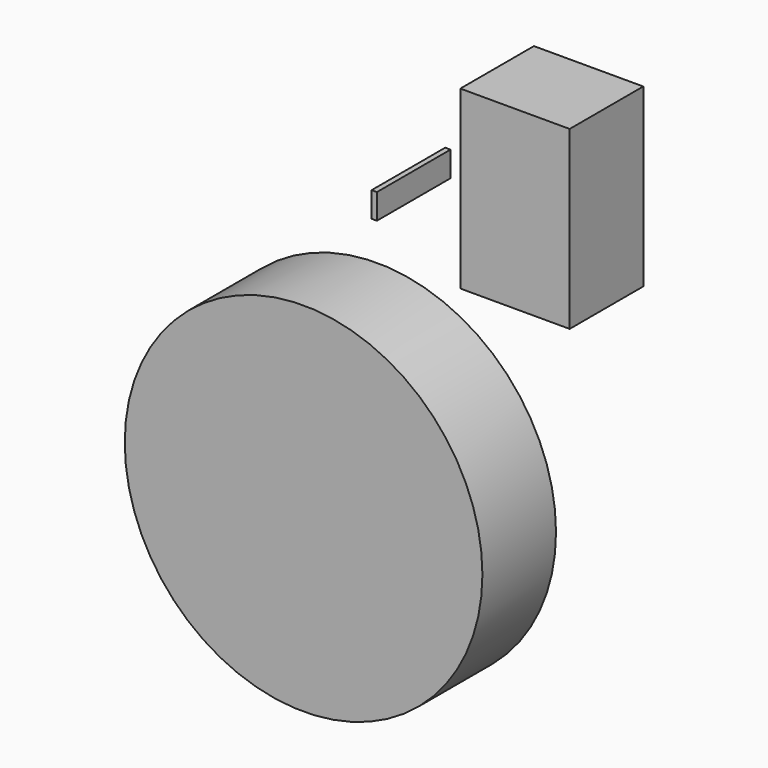
from build123d import *

# Parameters (mm, degrees)
F1_W     = 1.456469
F1_H     = 6.968319
F1_W_2   = 30.181892
F1_H_2   = 48.602842
F1_R     = 49.372417
F2_DEPTH = 25.4


with BuildPart() as f2:
    # F1 (on face) → F2 (new body)
    with BuildSketch(Plane.XZ):
        with Locations((19.516655, 80.006719)):
            Rectangle(F1_W, F1_H)
        with Locations((58.367323, 91.836769)):
            Rectangle(F1_W_2, F1_H_2)
        Circle(F1_R)
    extrude(amount=F2_DEPTH)


solid = f2.part
